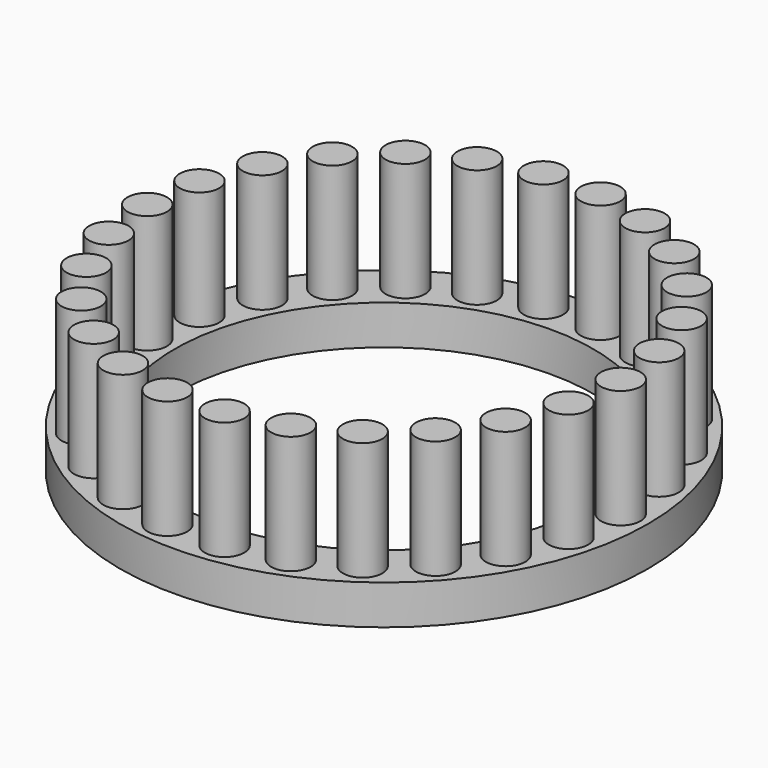
from build123d import *

# Parameters (mm, degrees)
F1_R     = 42.509287
F1_R_2   = 33.709002
F2_DEPTH = 6.35
F0_R     = 3.175
F3_DEPTH = 25.4


with BuildPart() as f2:
    # F1 (on Top) → F2 (new body)
    with BuildSketch(Plane.XY):
        Circle(F1_R)
        Circle(F1_R_2, mode=Mode.SUBTRACT)
    extrude(amount=F2_DEPTH)

    # F0 (on Top) → F3 (join)
    with BuildSketch(Plane.XY):
        with Locations((38.1, 0)):
            Circle(F0_R)
        with Locations((36.992883, -9.117927)):
            Circle(F0_R)
        with Locations((33.735875, -17.705953)):
            Circle(F0_R)
        with Locations((28.51826, -25.264973)):
            Circle(F0_R)
        with Locations((21.643267, -31.355685)):
            Circle(F0_R)
        with Locations((13.510446, -35.624119)):
            Circle(F0_R)
        with Locations((4.592448, -37.822208)):
            Circle(F0_R)
        with Locations((-4.592448, -37.822208)):
            Circle(F0_R)
        with Locations((-13.510446, -35.624119)):
            Circle(F0_R)
        with Locations((-21.643267, -31.355685)):
            Circle(F0_R)
        with Locations((-28.51826, -25.264973)):
            Circle(F0_R)
        with Locations((-33.735875, -17.705953)):
            Circle(F0_R)
        with Locations((-36.992883, -9.117927)):
            Circle(F0_R)
        with Locations((-38.1, 0)):
            Circle(F0_R)
        with Locations((-36.992883, 9.117927)):
            Circle(F0_R)
        with Locations((-33.735875, 17.705953)):
            Circle(F0_R)
        with Locations((-28.51826, 25.264973)):
            Circle(F0_R)
        with Locations((-21.643267, 31.355685)):
            Circle(F0_R)
        with Locations((-13.510446, 35.624119)):
            Circle(F0_R)
        with Locations((-4.592448, 37.822208)):
            Circle(F0_R)
        with Locations((4.592448, 37.822208)):
            Circle(F0_R)
        with Locations((13.510446, 35.624119)):
            Circle(F0_R)
        with Locations((21.643267, 31.355685)):
            Circle(F0_R)
        with Locations((28.51826, 25.264973)):
            Circle(F0_R)
        with Locations((33.735875, 17.705953)):
            Circle(F0_R)
        with Locations((36.992883, 9.117927)):
            Circle(F0_R)
    extrude(amount=F3_DEPTH)


solid = f2.part
